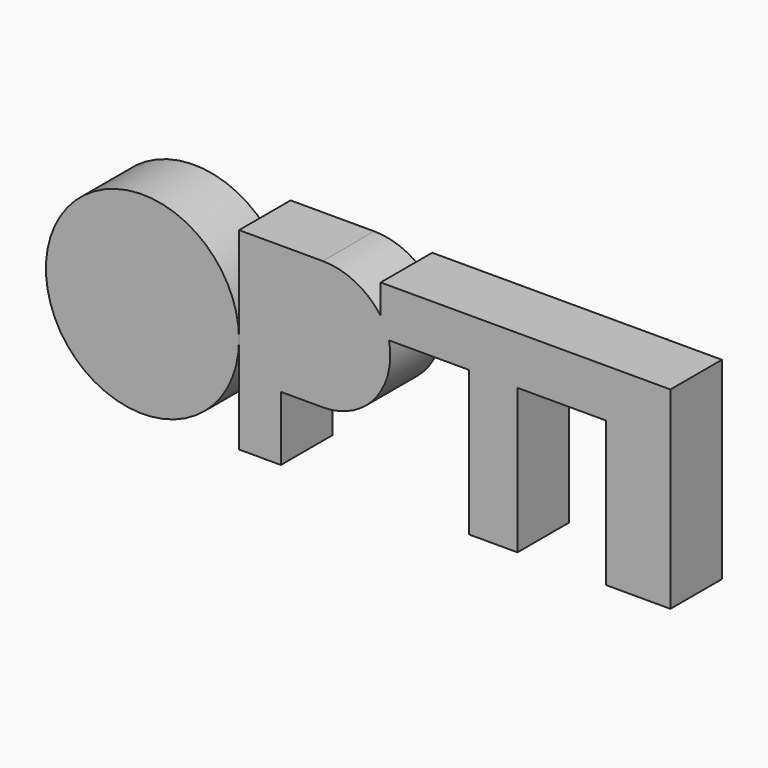
from build123d import *

# Parameters (mm, degrees)
F0_R     = 38.1
F1_DEPTH = 25.4


with BuildPart() as f1:
    # F0 (on Front) → F1 (new body)
    with BuildSketch(Plane.XZ):
        Circle(F0_R)
        with BuildLine():
            Line((38.1, 38.1), (38.1, 0))
            Line((38.1, 0), (38.1, -38.1))
            Line((38.1, -38.1), (54.61, -38.1))
            Line((54.61, -38.1), (54.61, -12.7))
            Line((54.61, -12.7), (71.12, -12.7))
            ThreePointArc((71.12, -12.7), (91.685932, -2.994881), (97.268952, 19.05))
            Line((97.268952, 19.05), (128.905, 19.05))
            Line((128.905, 19.05), (128.905, -38.1))
            Line((128.905, -38.1), (147.955, -38.1))
            Line((147.955, -38.1), (147.955, 19.05))
            Line((147.955, 19.05), (182.88, 19.05))
            Line((182.88, 19.05), (182.88, -38.1))
            Line((182.88, -38.1), (208.28, -38.1))
            Line((208.28, -38.1), (208.28, 38.1))
            Line((208.28, 38.1), (182.88, 38.1))
            Line((182.88, 38.1), (93.98, 38.1))
            Line((93.98, 38.1), (93.98, 26.541349))
            ThreePointArc((93.98, 26.541349), (83.928025, 35.046049), (71.12, 38.1))
            Line((71.12, 38.1), (54.61, 38.1))
            Line((54.61, 38.1), (38.1, 38.1))
        make_face()
    extrude(amount=F1_DEPTH)


solid = f1.part
